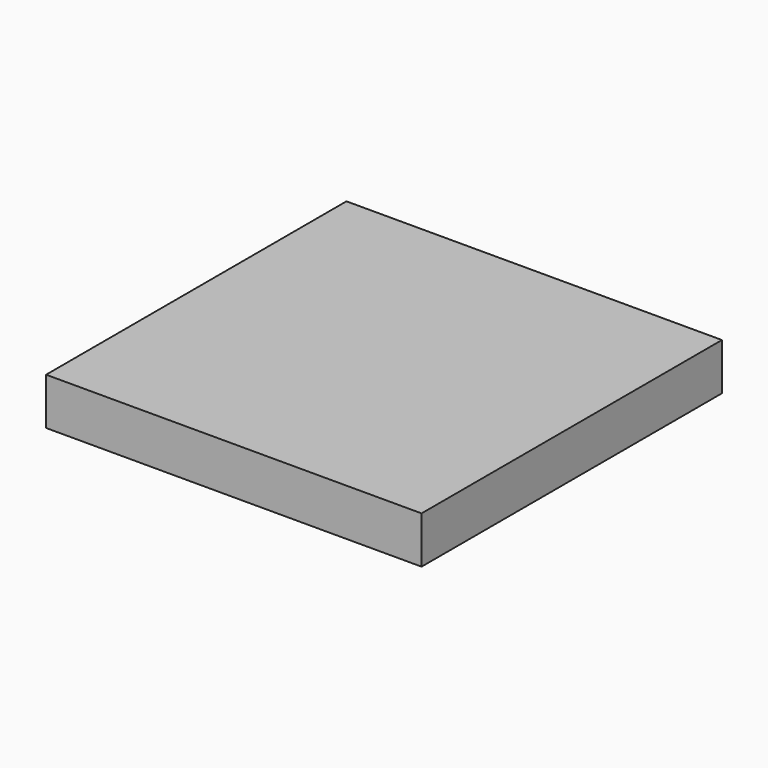
from build123d import *

# Parameters (mm, degrees)
SKETCH_W  = 40
SKETCH_H  = 40
PAD_DEPTH = 5


with BuildPart() as part:
    # Sketch → Pad (new body)
    with BuildSketch(Plane.XY):
        with Locations((20, 20)):
            Rectangle(SKETCH_W, SKETCH_H)
    extrude(amount=PAD_DEPTH)


solid = part.part
